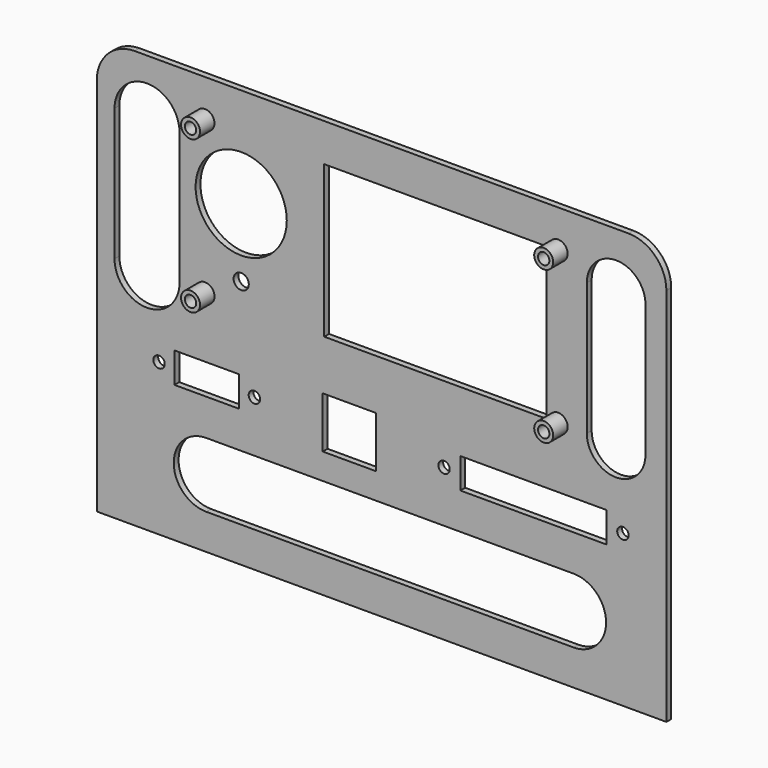
from build123d import *

# Parameters (mm, degrees)
SKETCH_W        = 150
SKETCH_H        = 110
PAD_DEPTH       = 1.5875
SKETCH001_R     = 1.5
SKETCH001_R_2   = 12
SKETCH001_R_3   = 2
SKETCH001_W     = 58.5
SKETCH001_H     = 40
POCKET_DEPTH    = 1.5885
SKETCH002_R     = 1.5
SKETCH002_W     = 38.5
SKETCH002_H     = 8
SKETCH002_W_2   = 14
SKETCH002_H_2   = 13.5
SKETCH002_W_3   = 17
POCKET001_DEPTH = 1.5885
SKETCH003_R     = 2.5
SKETCH003_R_2   = 1.5
PAD001_DEPTH    = 6.35
POCKET002_DEPTH = 1.5885
FILLET_R        = 10


with BuildPart() as part:
    # Sketch → Pad (new body)
    with BuildSketch(Plane.XZ):
        with Locations((20, -10)):
            Rectangle(SKETCH_W, SKETCH_H)
    extrude(amount=PAD_DEPTH)

    # Sketch001 (on Face5 of Pad) → Pocket (cut, through all)
    with BuildSketch(Plane(origin=(0, 0, 0), x_dir=(1, 0, 0), z_dir=(0, 1, 0))):
        with Locations((-26.5, 5.07)):
            Circle(SKETCH001_R)
        with Locations((-26.5, -35.07)):
            Circle(SKETCH001_R)
        with Locations((66.5, -35.07)):
            Circle(SKETCH001_R)
        with Locations((66.5, 5.07)):
            Circle(SKETCH001_R)
        with Locations((-16.97, -18.72)):
            Circle(SKETCH001_R_2)
        with Locations((-16.97, -0.68)):
            Circle(SKETCH001_R_3)
        with Locations((34.15, -15)):
            Rectangle(SKETCH001_W, SKETCH001_H)
    extrude(amount=-POCKET_DEPTH, mode=Mode.SUBTRACT)

    # Sketch002 (on Face4 of Pocket) → Pocket001 (cut, through all)
    with BuildSketch(Plane(origin=(0, 0, 0), x_dir=(1, 0, 0), z_dir=(0, 1, 0))):
        with Locations((36.45, 25)):
            Circle(SKETCH002_R)
        with Locations((83.55, 25)):
            Circle(SKETCH002_R)
        with Locations((-38.6, 25)):
            Circle(SKETCH002_R)
        with Locations((-13.5, 25)):
            Circle(SKETCH002_R)
        with Locations((60, 25)):
            Rectangle(SKETCH002_W, SKETCH002_H)
        with Locations((11.5, 25)):
            Rectangle(SKETCH002_W_2, SKETCH002_H_2)
        with Locations((-26.05, 25)):
            Rectangle(SKETCH002_W_3, SKETCH002_H)
    extrude(amount=-POCKET001_DEPTH, mode=Mode.SUBTRACT)

    # Sketch003 (on Face4 of Pocket001) → Pad001 (join)
    with BuildSketch(Plane(origin=(0, 0, 0), x_dir=(1, 0, 0), z_dir=(0, 1, 0))):
        with Locations((-26.5, 5.07)):
            Circle(SKETCH003_R)
        with Locations((-26.5, 5.07)):
            Circle(SKETCH003_R_2, mode=Mode.SUBTRACT)
        with Locations((-26.5, -35.07)):
            Circle(SKETCH003_R)
        with Locations((-26.5, -35.07)):
            Circle(SKETCH003_R_2, mode=Mode.SUBTRACT)
        with Locations((66.5, 5.07)):
            Circle(SKETCH003_R)
        with Locations((66.5, 5.07)):
            Circle(SKETCH003_R_2, mode=Mode.SUBTRACT)
        with Locations((66.5, -35.07)):
            Circle(SKETCH003_R)
        with Locations((66.5, -35.07)):
            Circle(SKETCH003_R_2, mode=Mode.SUBTRACT)
    extrude(amount=-PAD001_DEPTH)

    # Sketch004 (on Face5 of Pad001) → Pocket002 (cut, through all)
    with BuildSketch(Plane.XZ.offset(1.5875)):
        with BuildLine():
            ThreePointArc((-26.17718, -38.575536), (-34.73218, -47.130536), (-26.17718, -55.685536))
            Line((-26.17718, -55.685536), (70.560877, -55.685536))
            ThreePointArc((70.560877, -55.685536), (79.115877, -47.130536), (70.560877, -38.575536))
            Line((-26.17718, -38.575536), (70.560877, -38.575536))
        make_face()
        with BuildLine():
            ThreePointArc((-33.215195, 29.997324), (-41.77, 38.552129), (-50.324805, 29.997324))
            Line((-50.324805, 29.997324), (-50.324805, -4.910724))
            ThreePointArc((-50.324805, -4.910724), (-41.77, -13.465529), (-33.215195, -4.910724))
            Line((-33.215195, 29.997324), (-33.215195, -4.910724))
        make_face()
        with BuildLine():
            ThreePointArc((89.482501, 29.997324), (81.764, 37.715825), (74.045499, 29.997324))
            Line((74.045499, 29.997324), (74.045499, -4.910724))
            ThreePointArc((74.045499, -4.910724), (81.764, -12.629225), (89.482501, -4.910724))
            Line((89.482501, 29.997324), (89.482501, -4.910724))
        make_face()
    extrude(amount=-POCKET002_DEPTH, mode=Mode.SUBTRACT)

    # Fillet
    fillet_edges = [part.edges().sort_by_distance(p)[0] for p in [
        (95, -0.79375, 45),
        (-55, -0.79375, 45),
    ]]
    fillet(fillet_edges, radius=FILLET_R)


solid = part.part
